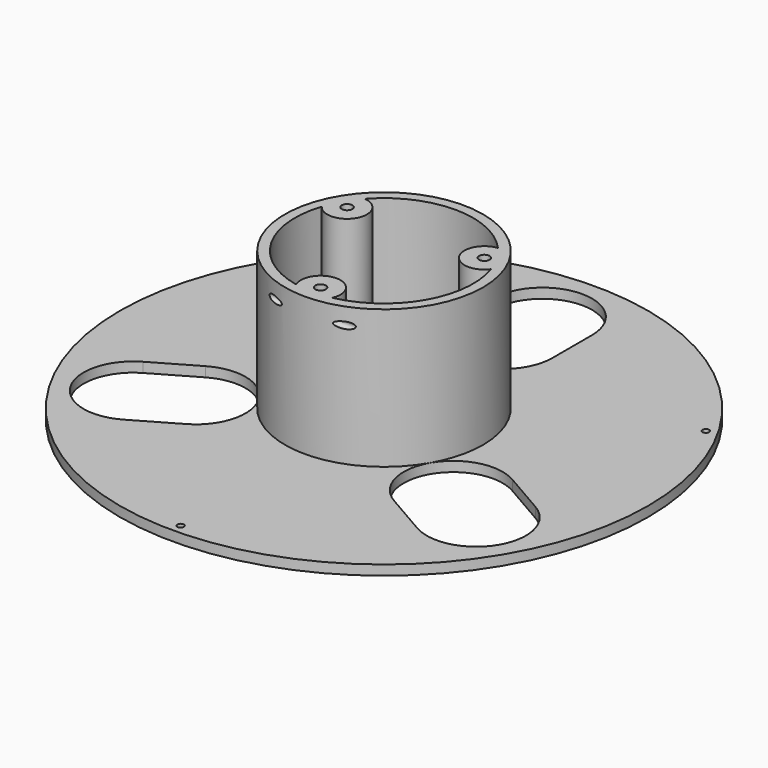
from build123d import *

# Parameters (mm, degrees)
SKETCH_R             = 80
SKETCH_R_2           = 15
SKETCH_R_3           = 1
PAD_DEPTH            = 3
SKETCH001_R          = 30
SKETCH001_R_2        = 27
PAD001_DEPTH         = 45
SKETCH002_R          = 6
PAD002_DEPTH         = 45
SKETCH004_R          = 1.6
POCKET_DEPTH         = 45.001
SKETCH003_R          = 4
POCKET001_DEPTH      = 20
SKETCH005_R          = 1
POCKET002_DEPTH      = 80.001
POCKET002_DEPTH_BACK = -80.001


with BuildPart() as part:
    # Sketch → Pad (new body)
    with BuildSketch(Plane.XY):
        Circle(SKETCH_R)
        Circle(SKETCH_R_2, mode=Mode.SUBTRACT)
        with Locations((-66.683956, 38.5)):
            Circle(SKETCH_R_3, mode=Mode.SUBTRACT)
        with Locations((66.683956, 38.5)):
            Circle(SKETCH_R_3, mode=Mode.SUBTRACT)
        with Locations((0, -77)):
            Circle(SKETCH_R_3, mode=Mode.SUBTRACT)
        with BuildLine():
            ThreePointArc((-15, 45), (0, 30), (15, 45))
            Line((15, 45), (15, 60))
            ThreePointArc((15, 60), (0, 75), (-15, 60))
            Line((-15, 45), (-15, 60))
        make_face(mode=Mode.SUBTRACT)
        with BuildLine():
            ThreePointArc((-31.471143, -35.490381), (-25.980762, -15), (-46.471143, -9.509619))
            Line((-46.471143, -9.509619), (-59.461524, -17.009619))
            ThreePointArc((-59.461524, -17.009619), (-64.951905, -37.5), (-44.461524, -42.990381))
            Line((-31.471143, -35.490381), (-44.461524, -42.990381))
        make_face(mode=Mode.SUBTRACT)
        with BuildLine():
            ThreePointArc((46.471143, -9.509619), (25.980762, -15), (31.471143, -35.490381))
            Line((31.471143, -35.490381), (44.461524, -42.990381))
            ThreePointArc((44.461524, -42.990381), (64.951905, -37.5), (59.461524, -17.009619))
            Line((46.471143, -9.509619), (59.461524, -17.009619))
        make_face(mode=Mode.SUBTRACT)
    extrude(amount=PAD_DEPTH)

    # Sketch001 → Pad001 (join)
    with BuildSketch(Plane.XY):
        Circle(SKETCH001_R)
        Circle(SKETCH001_R_2, mode=Mode.SUBTRACT)
    extrude(amount=PAD001_DEPTH)

    # Sketch002 → Pad002 (join)
    with BuildSketch(Plane.XY):
        with Locations((-20.78461, 12)):
            Circle(SKETCH002_R)
        with Locations((0, -24)):
            Circle(SKETCH002_R)
        with Locations((20.78461, 12)):
            Circle(SKETCH002_R)
    extrude(amount=PAD002_DEPTH)

    # Sketch004 → Pocket (cut, through all)
    with BuildSketch(Plane.XY):
        with Locations((-20.78461, 12)):
            Circle(SKETCH004_R)
        with Locations((20.78461, 12)):
            Circle(SKETCH004_R)
        with Locations((0, -24)):
            Circle(SKETCH004_R)
    extrude(amount=POCKET_DEPTH, mode=Mode.SUBTRACT)

    # Sketch003 → Pocket001 (cut)
    with BuildSketch(Plane.XY):
        with Locations((-20.78461, 12)):
            Circle(SKETCH003_R)
        with Locations((20.78461, 12)):
            Circle(SKETCH003_R)
        with Locations((0, -24)):
            Circle(SKETCH003_R)
    extrude(amount=POCKET001_DEPTH, mode=Mode.SUBTRACT)

    # Sketch005 → Pocket002 (cut, two sides)
    with BuildSketch(Plane.YZ) as pocket002_sk:
        with Locations((-28, 40)):
            Circle(SKETCH005_R)
    extrude(amount=-POCKET002_DEPTH, mode=Mode.SUBTRACT)
    extrude(pocket002_sk.sketch, amount=-POCKET002_DEPTH_BACK, mode=Mode.SUBTRACT)


solid = part.part
